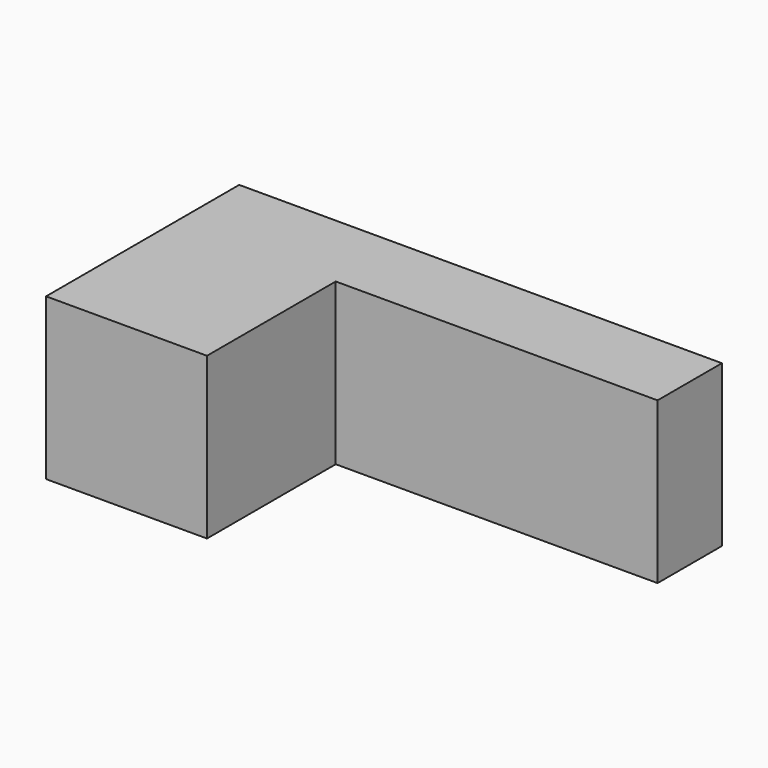
from build123d import *

# Parameters (mm, degrees)
F0_W     = 39.715842
F0_H     = 25.4
F1_DEPTH = 25.4
F2_DEPTH = 25.4


with BuildPart() as f1:
    # F0 (on Top) → F1 (new body)
    with BuildSketch(Plane.XY):
        Polygon((23.808891, 69.293525), (-88.875267, 69.293525), (-88.875267, -6.906475), (-38.075267, -6.906475), (-38.075267, 43.893525), (23.808891, 43.893525), align=None)
        with Locations((43.666812, 56.593525)):
            Rectangle(F0_W, F0_H)
    extrude(amount=F1_DEPTH)

    # F1_face (on face) → F2 (join)
    with BuildSketch(Plane(origin=(-32.995267, 41.353525, 25.4), x_dir=(1, 0, 0), z_dir=(0, 0, 1))):
        Polygon((96.52, 27.94), (-55.88, 27.94), (-55.88, -48.26), (-5.08, -48.26), (-5.08, 2.54), (96.52, 2.54), align=None)
    extrude(amount=F2_DEPTH)


solid = f1.part
